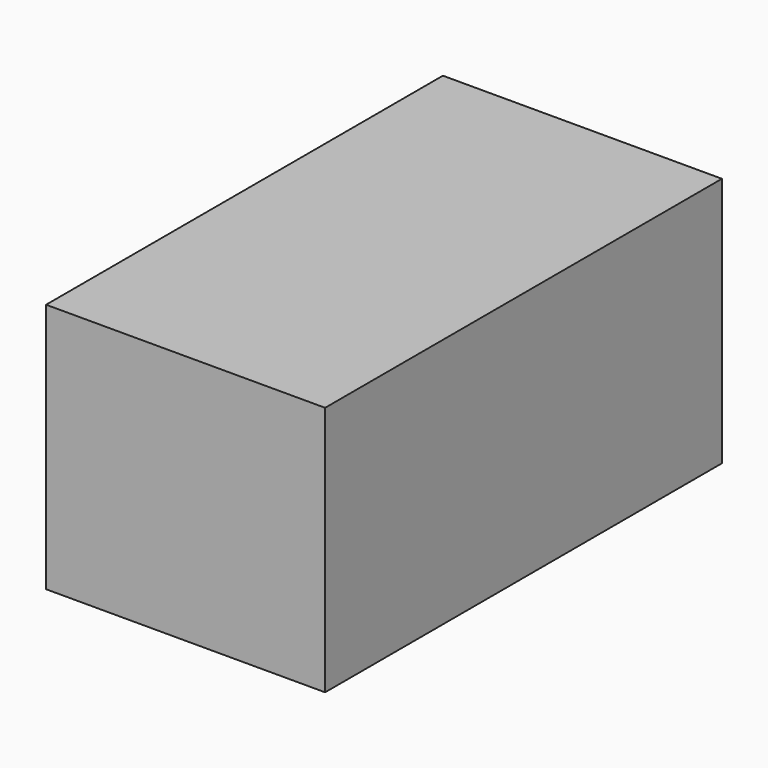
from build123d import *

# Parameters (mm, degrees)
F0_W       = 91.8862894177
F0_H       = 82.4839714915
F1_DEPTH   = 112.53249
F1_FACE_W  = 91.8862894177
F1_FACE_H  = 82.4839714915
F2_R       = 18.7587745479
F1_FACE1_W = 91.8862894177
F1_FACE1_H = 82.4839714915
F3_DEPTH   = 25.4
F4_DEPTH   = 25.4


with BuildPart() as f1:
    # F0 (on Front) → F1 (new body)
    with BuildSketch(Plane.XZ):
        with Locations((3.6097988486, -11.8252029642)):
            Rectangle(F0_W, F0_H)
    extrude(amount=F1_DEPTH)

    # F1_face (on face) + F2 (on Front) + F1_face1 (on face) → F3 (join)
    with BuildSketch(Plane(origin=(3.6097988486, -112.53249, -11.8252029642), x_dir=(1, 0, 0), z_dir=(0, -1, 0))):
        Rectangle(F1_FACE_W, F1_FACE_H)
    with BuildSketch(Plane.XZ):
        with Locations((-13.4063102305, -3.2802673522)):
            Circle(F2_R)
    with BuildSketch(Plane(origin=(3.6097988486, 0, -11.8252029642), x_dir=(1, 0, 0), z_dir=(0, 1, 0))):
        Rectangle(F1_FACE1_W, F1_FACE1_H)
    extrude(amount=F3_DEPTH, dir=(0, -1, 0))

    # F4 (add): faces of the model
    f4_faces = [f1.faces().sort_by_distance(p)[0] for p in [
        (3.6097988486, -137.93249, -11.8252029642),
        (3.6097988486, 0, -11.8252029642),
    ]]
    extrude(f4_faces, amount=F4_DEPTH, dir=(0, -1, 0))


solid = f1.part
